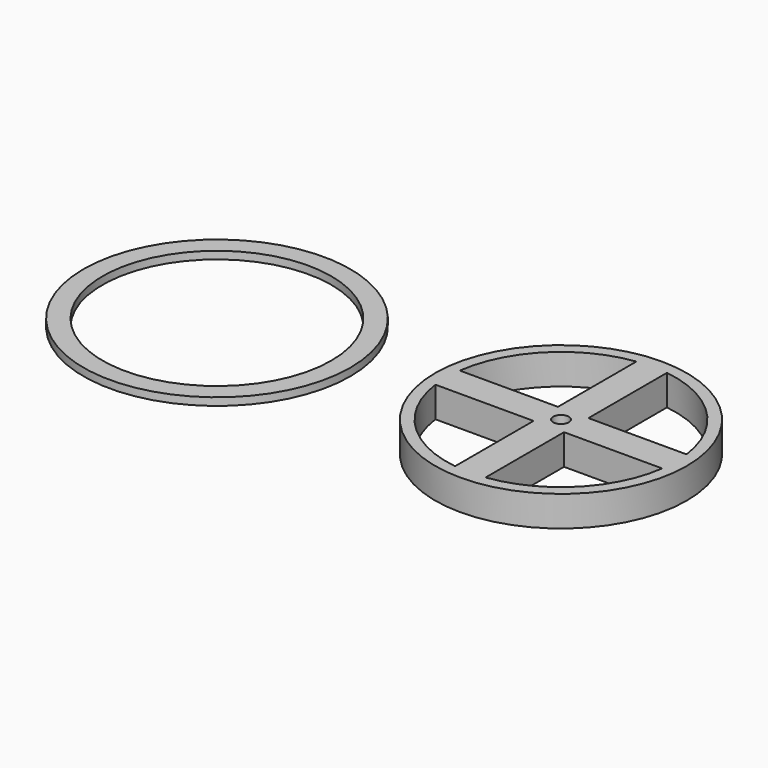
from build123d import *

# Parameters (mm, degrees)
F0_R     = 17.5
F0_R_2   = 15
F1_DEPTH = 1
F0_R_3   = 16.5
F0_R_4   = 1.016
F2_DEPTH = 4


with BuildPart() as f1:
    # F0 (on Top) → F1 (new body)
    with BuildSketch(Plane.XY):
        Circle(F0_R)
        Circle(F0_R_2, mode=Mode.SUBTRACT)
    extrude(amount=F1_DEPTH)


with BuildPart() as f2:
    # F0 (on Top) → F2 (new body)
    with BuildSketch(Plane.XY):
        with Locations((45.118097, 0)):
            Circle(F0_R_3)
        with BuildLine():
            ThreePointArc((43.118097, -14.866069), (34.511495, -10.606602), (30.252028, -2))
            Line((30.252028, -2), (43.118097, -2))
            Line((43.118097, -2), (43.118097, -14.866069))
        make_face(mode=Mode.SUBTRACT)
        with BuildLine():
            ThreePointArc((59.984166, -2), (55.724699, -10.606602), (47.118097, -14.866069))
            Line((47.118097, -14.866069), (47.118097, -2))
            Line((47.118097, -2), (59.984166, -2))
        make_face(mode=Mode.SUBTRACT)
        with BuildLine():
            ThreePointArc((30.252028, 2), (34.511495, 10.606602), (43.118097, 14.866069))
            Line((43.118097, 14.866069), (43.118097, 2))
            Line((43.118097, 2), (30.252028, 2))
        make_face(mode=Mode.SUBTRACT)
        with Locations((45.118097, 0)):
            Circle(F0_R_4, mode=Mode.SUBTRACT)
        with BuildLine():
            Line((47.118097, 2), (47.118097, 14.866069))
            ThreePointArc((47.118097, 14.866069), (55.724699, 10.606602), (59.984166, 2))
            Line((59.984166, 2), (47.118097, 2))
        make_face(mode=Mode.SUBTRACT)
    extrude(amount=F2_DEPTH)


solid = Compound([f1.part, f2.part])
